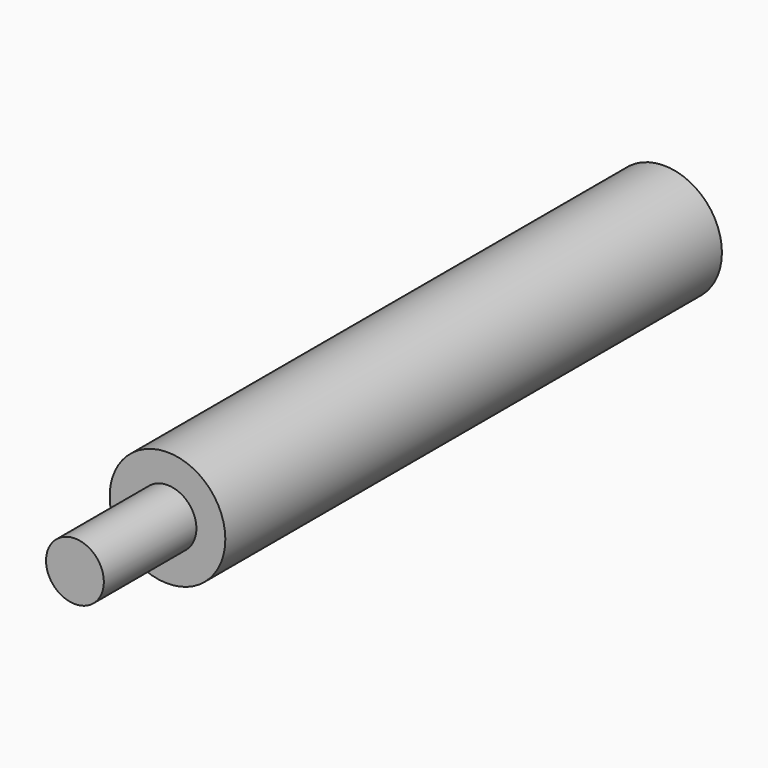
from build123d import *

# Parameters (mm, degrees)
F0_R     = 6.35
F1_DEPTH = 80.8482
F2_R     = 6.35
F2_R_2   = 3.175
F3_DEPTH = 12.7
F4_R     = 2.7559
F5_DEPTH = 12.7
F6_R     = 2.7559
F7_DEPTH = 2.54
F7_TAPER = 45


with BuildPart() as f1:
    # F0 (on Front) → F1 (new body)
    with BuildSketch(Plane.XZ):
        Circle(F0_R)
    extrude(amount=F1_DEPTH)

    # F2 (on face) → F3 (cut)
    with BuildSketch(Plane.XZ.offset(80.8482)):
        Circle(F2_R)
        Circle(F2_R_2, mode=Mode.SUBTRACT)
    extrude(amount=-F3_DEPTH, mode=Mode.SUBTRACT)

    # F4 (on face) → F5 (cut)
    with BuildSketch(Plane(origin=(0, 0, 0), x_dir=(-1, 0, 0), z_dir=(0, 1, 0))):
        Circle(F4_R)
    extrude(amount=-F5_DEPTH, mode=Mode.SUBTRACT)

    # F6 (on face) → F7 (cut)
    with BuildSketch(Plane(origin=(0, -12.7, 0), x_dir=(-1, 0, 0), z_dir=(0, 1, 0))):
        Circle(F6_R)
    extrude(amount=-F7_DEPTH, taper=F7_TAPER, mode=Mode.SUBTRACT)


solid = f1.part
